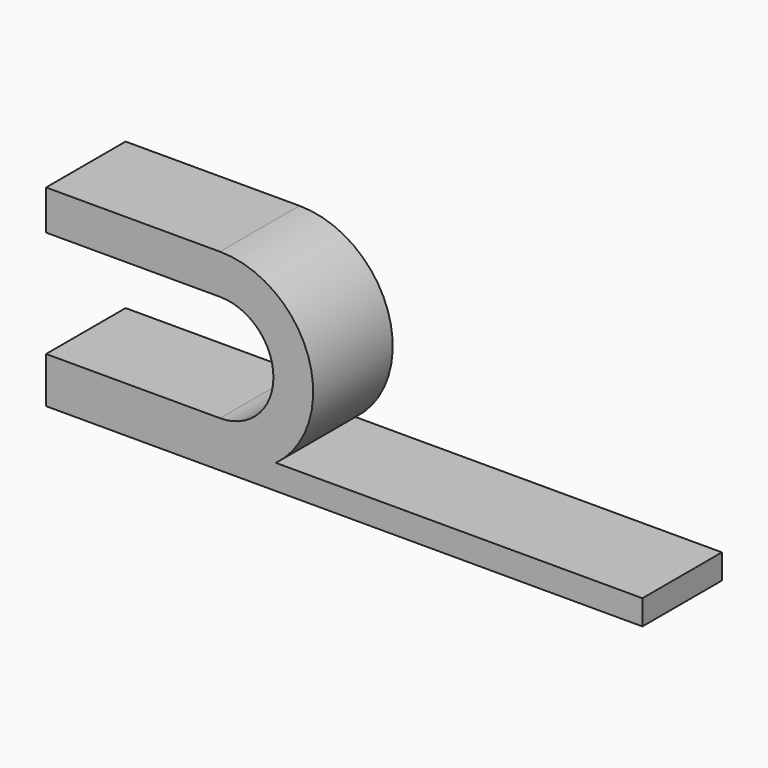
from build123d import *

# Parameters (mm, degrees)
BOX006_W               = 14
BOX006_H               = 8
BOX006_DEPTH           = 8.6
CYLINDER006_R          = 4.3
CYLINDER006_DEPTH      = 8
CYLINDER006_ROLL_ANGLE = 90
CYLINDER005_R          = 7.5
CYLINDER005_DEPTH      = 8
CYLINDER005_ROLL_ANGLE = 90
BOX005_W               = 14
BOX005_H               = 8
BOX005_DEPTH           = 8.6
BOX004_W               = 14
BOX004_H               = 8
BOX004_DEPTH           = 15.5
BOX_W                  = 48
BOX_H                  = 8
BOX_DEPTH              = 2


with BuildPart() as cubo006:
    # Box006 → Box006 (new body)
    with BuildSketch(Plane(origin=(-9, 0, 3.7), x_dir=(1, 0, 0), z_dir=(0, 0, 1))):
        with Locations((7, 4)):
            Rectangle(BOX006_W, BOX006_H)
    extrude(amount=BOX006_DEPTH)


with BuildPart() as cilindro006:
    # Cylinder006 → Cylinder006 (new body)
    with BuildSketch(Plane.XY):
        Circle(CYLINDER006_R)
    extrude(amount=CYLINDER006_DEPTH)


with BuildPart() as cilindro006_1:
    # Cylinder006 roll: moved
    add(cilindro006.part.rotate(Axis((0, 0, 0), (1, 0, 0)), CYLINDER006_ROLL_ANGLE))


with BuildPart() as cilindro006_2:
    # Cylinder006 placement: moved
    add(cilindro006_1.part.moved(Location((5, 8, 8))))


with BuildPart() as cut:
    # Cylinder005 → Cylinder005 (new body)
    with BuildSketch(Plane.XY):
        Circle(CYLINDER005_R)
    extrude(amount=CYLINDER005_DEPTH)


with BuildPart() as cut_1:
    # Cylinder005 roll: moved
    add(cut.part.rotate(Axis((0, 0, 0), (1, 0, 0)), CYLINDER005_ROLL_ANGLE))


with BuildPart() as cut_2:
    # Cylinder005 placement: moved
    add(cut_1.part.moved(Location((5, 8, 8))))

    # Cut004: cut Cilindro006
    add(cilindro006_2.part, mode=Mode.SUBTRACT)

    # Cut: cut Cubo006
    add(cubo006.part, mode=Mode.SUBTRACT)


with BuildPart() as cubo005:
    # Box005 → Box005 (new body)
    with BuildSketch(Plane(origin=(-9, 0, 3.7), x_dir=(1, 0, 0), z_dir=(0, 0, 1))):
        with Locations((7, 4)):
            Rectangle(BOX005_W, BOX005_H)
    extrude(amount=BOX005_DEPTH)


with BuildPart() as cut003:
    # Box004 → Box004 (new body)
    with BuildSketch(Plane(origin=(-9, 0, 0), x_dir=(1, 0, 0), z_dir=(0, 0, 1))):
        with Locations((7, 4)):
            Rectangle(BOX004_W, BOX004_H)
    extrude(amount=BOX004_DEPTH)

    # Cut003: cut Cubo005
    add(cubo005.part, mode=Mode.SUBTRACT)


with BuildPart() as fusion:
    # Box → Box (new body)
    with BuildSketch(Plane(origin=(-9, 0, 0), x_dir=(1, 0, 0), z_dir=(0, 0, 1))):
        with Locations((24, 4)):
            Rectangle(BOX_W, BOX_H)
    extrude(amount=BOX_DEPTH)

    # Fusion001003: union Cut003
    add(cut003.part)

    # Fusion: union Cut
    add(cut_2.part)


solid = fusion.part
